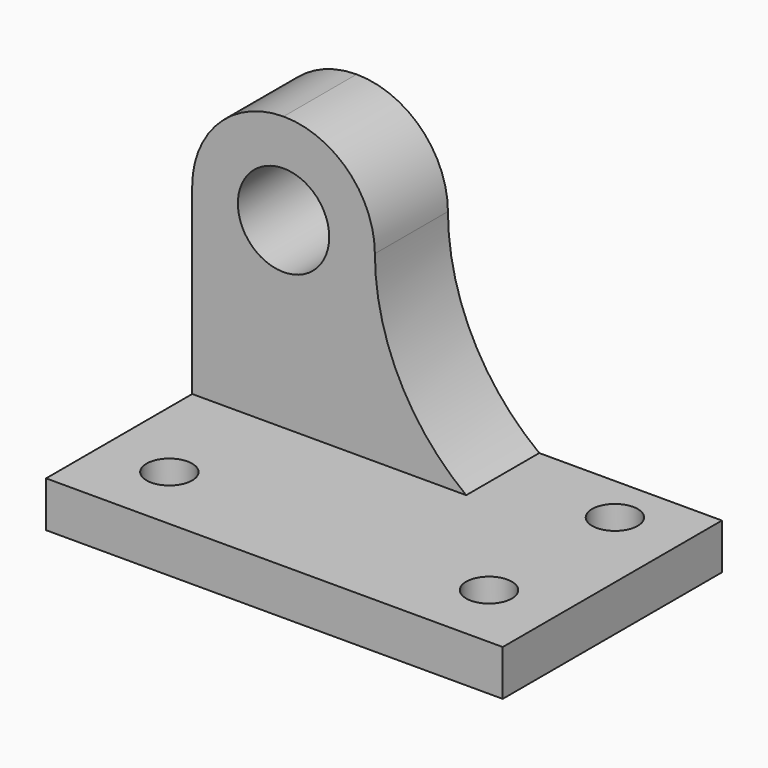
from build123d import *

# Parameters (mm, degrees)
F1_DEPTH = 38.1
F3_DEPTH = 25.4
F4_R     = 6.35
F5_DEPTH = 12.701
F6_R     = 3.175
F7_DEPTH = 6.351


with BuildPart() as f1:
    # F0 (on Front) → F1 (new body)
    with BuildSketch(Plane.XZ):
        with BuildLine():
            ThreePointArc((-42.129658, 53.987246), (-51.109914, 50.267503), (-54.829658, 41.287246))
            Line((-54.829658, 41.287246), (-54.829658, 9.537246))
            Line((-54.829658, 9.537246), (8.670342, 9.537246))
            Line((8.670342, 9.537246), (8.670342, 15.887246))
            Line((8.670342, 15.887246), (-16.729658, 15.887246))
            ThreePointArc((-16.729658, 15.887246), (-26.059538, 27.117037), (-29.429707, 41.322558))
            ThreePointArc((-29.429707, 41.322558), (-33.161895, 50.279978), (-42.129658, 53.987246))
        make_face()
    extrude(amount=F1_DEPTH)

    # F2 (on face) → F3 (cut)
    with BuildSketch(Plane.XZ.offset(38.1)):
        with BuildLine():
            Line((-54.829658, 15.887246), (-16.729658, 15.887246))
            ThreePointArc((-16.729658, 15.887246), (-26.059538, 27.117037), (-29.429707, 41.322558))
            ThreePointArc((-29.429707, 41.322558), (-42.147313, 53.987234), (-54.829658, 41.287246))
            Line((-54.829658, 41.287246), (-54.829658, 15.887246))
        make_face()
    extrude(amount=-F3_DEPTH, mode=Mode.SUBTRACT)

    # F4 (on face) → F5 (cut, through all)
    with BuildSketch(Plane.XZ.offset(12.7)):
        with Locations((-42.129658, 41.287246)):
            Circle(F4_R)
    extrude(amount=-F5_DEPTH, mode=Mode.SUBTRACT)

    # F6 (on face) → F7 (cut, through all)
    with BuildSketch(Plane.XY.offset(15.887246)):
        with Locations((-0.854658, -6.692464)):
            Circle(F6_R)
        with Locations((-0.854658, -28.575)):
            Circle(F6_R)
        with Locations((-45.304658, -28.575)):
            Circle(F6_R)
    extrude(amount=-F7_DEPTH, mode=Mode.SUBTRACT)


solid = f1.part
